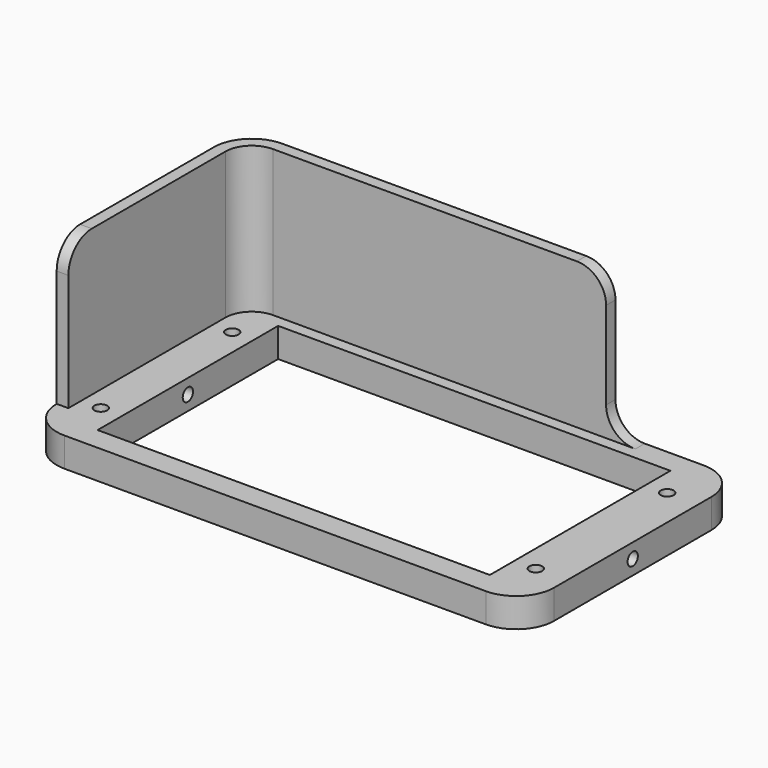
from build123d import *

# Parameters (mm, degrees)
F0_W           = 67.1
F0_H           = 38.6
F1_DEPTH       = 5
F2_DEPTH       = 5
F3_D           = 2.2
F3_CSINK_D     = 6.72
F3_CSINK_ANGLE = 90
F5_D           = 2.2
F7_DEPTH       = 25
F8_R           = 5


with BuildPart() as f1:
    # F0 (on Top) → F1 (new body)
    with BuildSketch(Plane.XY):
        with BuildLine():
            ThreePointArc((40.55, 16.8), (39.231981, 19.981981), (36.05, 21.3))
            Line((36.05, 21.3), (-36.05, 21.3))
            ThreePointArc((-36.05, 21.3), (-39.231981, 19.981981), (-40.55, 16.8))
            Line((-40.55, 16.8), (-40.55, -16.8))
            ThreePointArc((-40.55, -16.8), (-39.231981, -19.981981), (-36.05, -21.3))
            Line((-36.05, -21.3), (-14.45, -21.3))
            Line((-14.45, -21.3), (36.05, -21.3))
            ThreePointArc((36.05, -21.3), (39.231981, -19.981981), (40.55, -16.8))
            Line((40.55, -16.8), (40.55, 16.8))
        make_face()
        Rectangle(F0_W, F0_H, mode=Mode.SUBTRACT)
    extrude(amount=F1_DEPTH)

    # F0 (on Top) → F2 (join)
    with BuildSketch(Plane.XY):
        with BuildLine():
            Line((-36.05, 21.3), (36.05, 21.3))
            ThreePointArc((36.05, 21.3), (39.231981, 19.981981), (40.55, 16.8))
            Line((40.55, 16.8), (42.55, 16.8))
            ThreePointArc((42.55, 16.8), (40.646194, 21.396194), (36.05, 23.3))
            Line((36.05, 23.3), (-36.05, 23.3))
            ThreePointArc((-36.05, 23.3), (-40.646194, 21.396194), (-42.55, 16.8))
            Line((-42.55, 16.8), (-42.55, -16.8))
            ThreePointArc((-42.55, -16.8), (-40.646194, -21.396194), (-36.05, -23.3))
            Line((-36.05, -23.3), (-14.45, -23.3))
            Line((-14.45, -23.3), (-14.45, -21.3))
            Line((-14.45, -21.3), (-36.05, -21.3))
            ThreePointArc((-36.05, -21.3), (-39.231981, -19.981981), (-40.55, -16.8))
            Line((-40.55, -16.8), (-40.55, 16.8))
            ThreePointArc((-40.55, 16.8), (-39.231981, 19.981981), (-36.05, 21.3))
        make_face()
        with BuildLine():
            Line((42.55, 16.8), (40.55, 16.8))
            Line((40.55, 16.8), (40.55, -16.8))
            ThreePointArc((40.55, -16.8), (39.231981, -19.981981), (36.05, -21.3))
            Line((36.05, -21.3), (-14.45, -21.3))
            Line((-14.45, -21.3), (-14.45, -23.3))
            Line((-14.45, -23.3), (36.05, -23.3))
            ThreePointArc((36.05, -23.3), (40.646194, -21.396194), (42.55, -16.8))
            Line((42.55, -16.8), (42.55, 16.8))
        make_face()
    extrude(amount=F2_DEPTH)

    # F3 (through all)
    with Locations(Plane(origin=(0, 0, 0), x_dir=(1, 0, 0), z_dir=(0, 0, -1))):
        with Locations((37.2, 14.05), (37.2, -14.05), (-37.2, -14.05), (-37.2, 14.05)):
            CounterSinkHole(F3_D / 2, F3_CSINK_D / 2, counter_sink_angle=F3_CSINK_ANGLE)

    # F5 (through all)
    with Locations(Plane.YZ.offset(42.55)):
        with Locations((0, 2.5)):
            Hole(F5_D / 2)

    # F6 (on face) → F7 (join)
    with BuildSketch(Plane.XY.offset(5)):
        with BuildLine():
            Line((-42.55, 16.8), (-42.55, -16.8))
            Line((-42.55, -16.8), (-40.55, -16.8))
            Line((-40.55, -16.8), (-40.55, 16.8))
            ThreePointArc((-40.55, 16.8), (-39.231981, 19.981981), (-36.05, 21.3))
            Line((-36.05, 21.3), (20.95, 21.3))
            Line((20.95, 21.3), (20.95, 23.3))
            Line((20.95, 23.3), (-36.05, 23.3))
            ThreePointArc((-36.05, 23.3), (-40.646194, 21.396194), (-42.55, 16.8))
        make_face()
    extrude(amount=F7_DEPTH)

    # F8
    f8_edges = [f1.edges().sort_by_distance(p)[0] for p in [
        (-41.55, -16.8, 30),
        (20.95, 22.3, 30),
        (20.95, 22.3, 5),
    ]]
    fillet(f8_edges, radius=F8_R)


solid = f1.part
